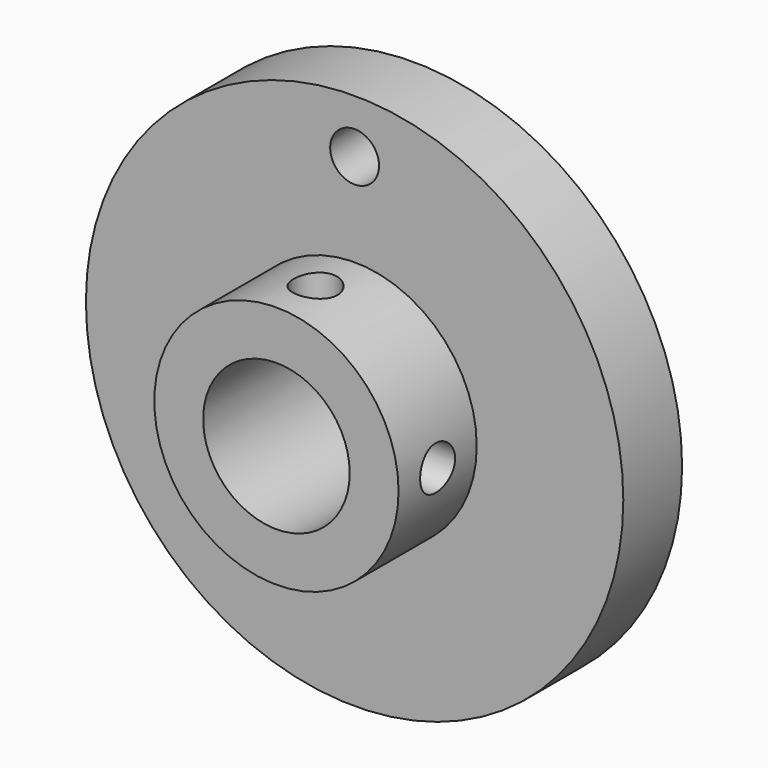
from build123d import *

# Parameters (mm, degrees)
F0_R      = 17.4625
F0_R_2    = 4.7625
F1_DEPTH  = 4.7752
F2_R      = 7.9375
F2_R_2    = 4.7625
F3_DEPTH  = 6.35
F5_R      = 1.5875
F6_DEPTH  = 4.7762
F8_R      = 1.4224
F9_DEPTH  = 5.08
F11_R     = 1.4224
F12_DEPTH = 5.08


with BuildPart() as f1:
    # F0 (on Front) → F1 (new body)
    with BuildSketch(Plane.XZ):
        Circle(F0_R)
        Circle(F0_R_2, mode=Mode.SUBTRACT)
    extrude(amount=F1_DEPTH)

    # F2 (on face) → F3 (join)
    with BuildSketch(Plane.XZ.offset(4.7752)):
        Circle(F2_R)
        Circle(F2_R_2, mode=Mode.SUBTRACT)
    extrude(amount=F3_DEPTH)

    # F5 (on face) → F6 (cut, through all)
    with BuildSketch(Plane.XZ.offset(4.7752)):
        with Locations((0, 13.97)):
            Circle(F5_R)
    extrude(amount=-F6_DEPTH, mode=Mode.SUBTRACT)

    # F8 (on offset) → F9 (cut)
    with BuildSketch(Plane.XY.offset(7.9375)):
        with Locations((0, -7.9502)):
            Circle(F8_R)
    extrude(amount=-F9_DEPTH, mode=Mode.SUBTRACT)

    # F11 (on offset) → F12 (cut)
    with BuildSketch(Plane.YZ.offset(7.9375)):
        with Locations((-7.9502, 0)):
            Circle(F11_R)
    extrude(amount=-F12_DEPTH, mode=Mode.SUBTRACT)


solid = f1.part
